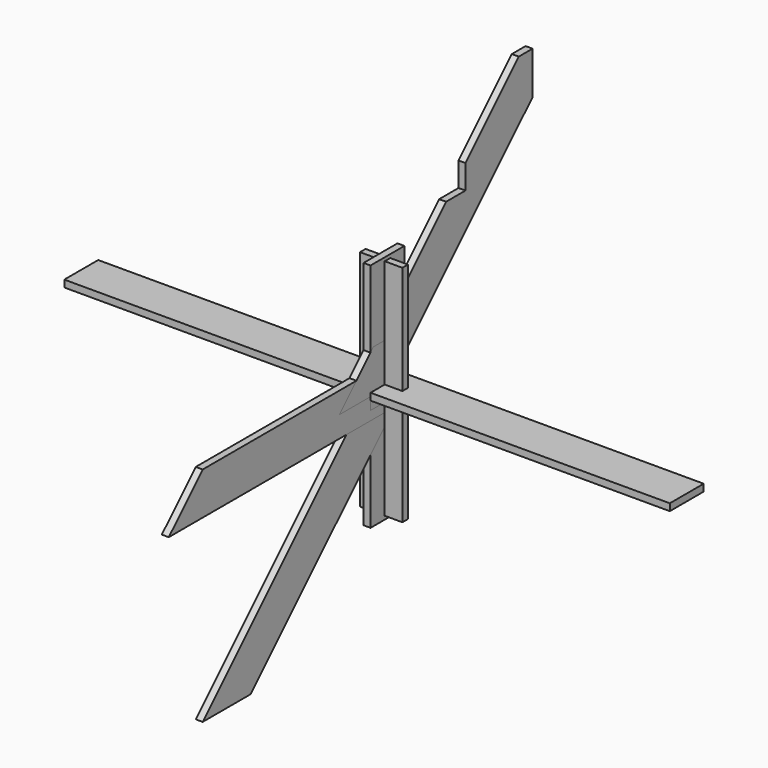
from build123d import *

# Parameters (mm, degrees)
F0_W      = 140
F0_H      = 23
F1_DEPTH  = 1000
F2_W      = 23
F2_H      = 140
F3_DEPTH  = 381.5
F5_DEPTH  = 11.5
F7_DEPTH  = 11.5
F9_DEPTH  = 11.5
F10_W     = 140
F10_H     = 740
F11_DEPTH = 11.5
F13_DEPTH = 11.5
F15_DEPTH = 23
F17_DEPTH = 23
F19_DEPTH = 23
F20_W     = 140
F20_H     = 40
F21_DEPTH = 11.5


with BuildPart() as f1:
    # F0 (on Right) → F1 (new body, symmetric)
    with BuildSketch(Plane.YZ):
        Rectangle(F0_W, F0_H)
    extrude(amount=F1_DEPTH, both=True)


with BuildPart() as f3:
    # F2 (on Top) → F3 (new body, symmetric)
    with BuildSketch(Plane.XY):
        Rectangle(F2_W, F2_H)
    extrude(amount=F3_DEPTH, both=True)


with BuildPart() as f5:
    # F4 (on Right) → F5 (new body, symmetric)
    with BuildSketch(Plane.YZ):
        Polygon((0, -98.9949493661), (0, 98.9949493661), (-763, -664.0050506339), (-565.0101012678, -664.0050506339), align=None)
    extrude(amount=F5_DEPTH, both=True)


with BuildPart() as f7:
    # F6 (on Right) → F7 (new body, symmetric)
    with BuildSketch(Plane.YZ):
        Polygon((0, -70), (0, 70), (-163, 70), (-303, -70), align=None)
    extrude(amount=F7_DEPTH, both=True)


with BuildPart() as f9:
    # F8 (on Right) → F9 (new body, symmetric)
    with BuildSketch(Plane.YZ):
        Polygon((0, -70), (0, 70), (-763, 70), (-903, -70), align=None)
    extrude(amount=F9_DEPTH, both=True)


with BuildPart() as f11:
    # F10 (on Front) → F11 (new body, symmetric)
    with BuildSketch(Plane.XZ):
        Rectangle(F10_W, F10_H)
    extrude(amount=F11_DEPTH, both=True)


with BuildPart() as f13:
    # F12 (on Right) → F13 (new body, symmetric)
    with BuildSketch(Plane.YZ):
        Polygon((-197.9898987322, 0), (0, 0), (740, 740), (542.0101012678, 740), align=None)
    extrude(amount=F13_DEPTH, both=True)

    # F14 (on face) → F15 (cut, through all)
    with BuildSketch(Plane.YZ.offset(11.5)):
        Polygon((22.0101012678, 220), (-57.9898987322, 140), (22.0101012678, 140), align=None)
    extrude(amount=-F15_DEPTH, mode=Mode.SUBTRACT)

    # F16 (on face) → F17 (cut, through all)
    with BuildSketch(Plane.YZ.offset(11.5)):
        Polygon((322.0101012678, 520), (242.0101012678, 440), (322.0101012678, 440), align=None)
    extrude(amount=-F17_DEPTH, mode=Mode.SUBTRACT)

    # F18 (on face) → F19 (cut, through all)
    with BuildSketch(Plane.YZ.offset(11.5)):
        Polygon((740, 740), (599, 740), (599, 599), align=None)
    extrude(amount=-F19_DEPTH, mode=Mode.SUBTRACT)


with BuildPart() as f21:
    # F20 (on Right) → F21 (new body, symmetric)
    with BuildSketch(Plane.YZ):
        with Locations((0, -20)):
            Rectangle(F20_W, F20_H)
    extrude(amount=F21_DEPTH, both=True)


solid = Compound([f1.part, f3.part, f5.part, f7.part, f9.part, f11.part, f13.part, f21.part])
